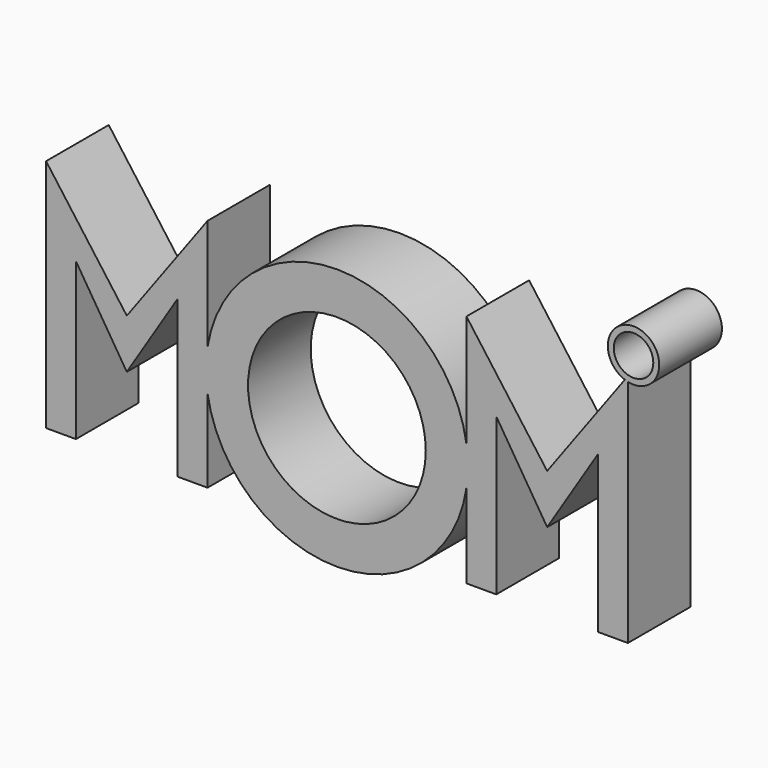
from build123d import *

# Parameters (mm, degrees)
F0_R     = 14.4068230009
F0_R_2   = 3.2049597944
F1_DEPTH = 6.35


with BuildPart() as f1:
    # F0 (on Front) → F1 (new body, symmetric)
    with BuildSketch(Plane.XZ):
        with BuildLine():
            Line((-47.1492125925, -9.9419855554), (-42.3105131817, -9.9419855554))
            Line((-42.3105131817, -9.9419855554), (-42.3105131817, 15.4580144446))
            Line((-42.3105131817, 15.4580144446), (-34.0617353508, 2.3423101061))
            Line((-34.0617353508, 2.3423101061), (-25.8129575198, 15.4580144446))
            Line((-25.8129575198, 15.4580144446), (-25.8129575198, -9.9419855554))
            Line((-25.8129575198, -9.9419855554), (-20.974258109, -9.9419855554))
            Line((-20.974258109, -9.9419855554), (-20.974258109, 3.529483276))
            ThreePointArc((-20.974258109, 3.529483276), (-21.2326654511, 6.8319942802), (-20.974258109, 10.1345052844))
            Line((-20.974258109, 10.1345052844), (-20.974258109, 28.1580144446))
            Line((-20.974258109, 28.1580144446), (-34.0617353508, 10.3524101739))
            Line((-34.0617353508, 10.3524101739), (-47.1492125925, 28.1580144446))
            Line((-47.1492125925, 28.1580144446), (-47.1492125925, -9.9419855554))
        make_face()
        with BuildLine():
            ThreePointArc((21.0008528084, 9.9609339535), (0.0877984695, 28.0644782043), (-20.974258109, 10.1345052844))
            Line((-20.974258109, 10.1345052844), (-20.974258109, 3.529483276))
            ThreePointArc((-20.974258109, 3.529483276), (0.0877984695, -14.4004896439), (21.0008528084, 3.703054607))
            Line((21.0008528084, 3.703054607), (21.0008528084, 9.9609339535))
        make_face()
        with Locations((0, 6.8319942802)):
            Circle(F0_R, mode=Mode.SUBTRACT)
        with BuildLine():
            Line((-20.974258109, 3.529483276), (-20.974258109, 10.1345052844))
            ThreePointArc((-20.974258109, 10.1345052844), (-21.2326654511, 6.8319942802), (-20.974258109, 3.529483276))
        make_face()
        with BuildLine():
            Line((21.0008528084, 28.1580144446), (21.0008528084, 9.9609339535))
            ThreePointArc((21.0008528084, 9.9609339535), (21.1746329841, 8.4007517966), (21.2326654511, 6.8319942802))
            ThreePointArc((21.2326654511, 6.8319942802), (21.1746329841, 5.2632367639), (21.0008528084, 3.703054607))
            Line((21.0008528084, 3.703054607), (21.0008528084, -9.9419855554))
            Line((21.0008528084, -9.9419855554), (25.8395522192, -9.9419855554))
            Line((25.8395522192, -9.9419855554), (25.8395522192, 15.4580144446))
            Line((25.8395522192, 15.4580144446), (34.0883300501, 2.3423101061))
            Line((34.0883300501, 2.3423101061), (42.3371078811, 15.4580144446))
            Line((42.3371078811, 15.4580144446), (42.3371078811, -9.9419855554))
            Line((42.3371078811, -9.9419855554), (47.1758072919, -9.9419855554))
            Line((47.1758072919, -9.9419855554), (47.1758072919, 27.3316462631))
            ThreePointArc((47.1758072919, 27.3316462631), (46.923397405, 27.3967035148), (46.6755457316, 27.477405095))
            Line((46.6755457316, 27.477405095), (34.0883300501, 10.3524101739))
            Line((34.0883300501, 10.3524101739), (21.0008528084, 28.1580144446))
        make_face()
        with BuildLine():
            ThreePointArc((21.2326654511, 6.8319942802), (21.1746329841, 8.4007517966), (21.0008528084, 9.9609339535))
            Line((21.0008528084, 9.9609339535), (21.0008528084, 3.703054607))
            ThreePointArc((21.0008528084, 3.703054607), (21.1746329841, 5.2632367639), (21.2326654511, 6.8319942802))
        make_face()
        with BuildLine():
            ThreePointArc((52.2593864205, 31.3998535275), (45.6930221637, 34.8117766856), (46.6755457316, 27.477405095))
            Line((46.6755457316, 27.477405095), (47.1758072919, 28.1580144446))
            Line((47.1758072919, 28.1580144446), (47.1758072919, 27.3316462631))
            ThreePointArc((47.1758072919, 27.3316462631), (50.6950358132, 28.144354829), (52.2593864205, 31.3998535275))
        make_face()
        with Locations((48.0897761881, 31.3998535275)):
            Circle(F0_R_2, mode=Mode.SUBTRACT)
        with BuildLine():
            Line((47.1758072919, 28.1580144446), (46.6755457316, 27.477405095))
            ThreePointArc((46.6755457316, 27.477405095), (46.923397405, 27.3967035148), (47.1758072919, 27.3316462631))
            Line((47.1758072919, 27.3316462631), (47.1758072919, 28.1580144446))
        make_face()
    extrude(amount=F1_DEPTH, both=True)


solid = f1.part
